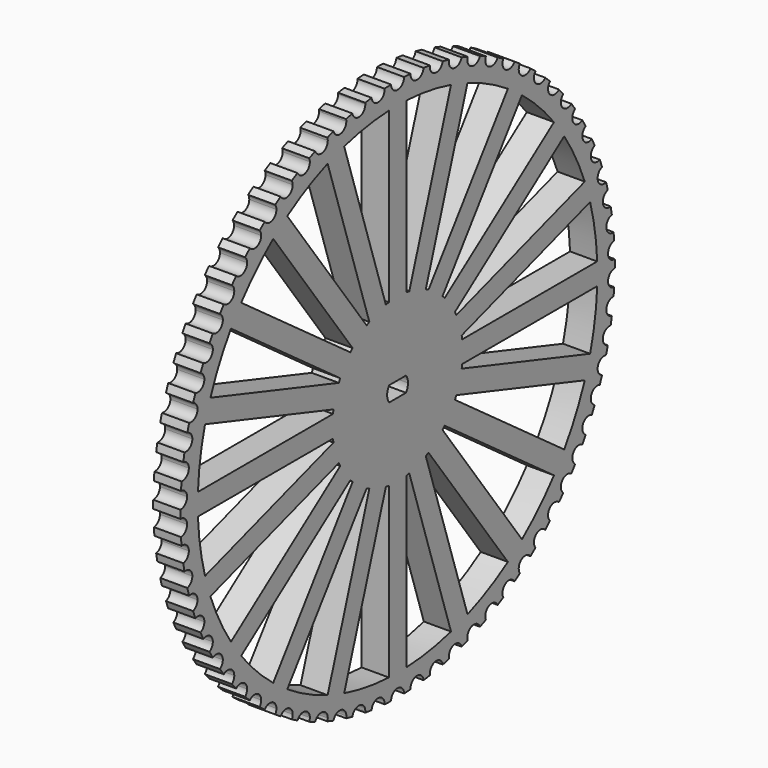
from build123d import *

# Parameters (mm, degrees)
F3_R     = 15
F4_DEPTH = 5
F5_DEPTH = 5
F6_DEPTH = 5


with BuildPart() as f4:
    # F3 (on line) → F4 (new body)
    with BuildSketch(Plane.YZ.offset(-40)):
        Circle(F3_R)
        with BuildLine():
            ThreePointArc((1.949358869, 1.4), (2.2845635563, 0.7353702178), (2.4, 0))
            ThreePointArc((2.4, 0), (2.2845635563, -0.7353702178), (1.949358869, -1.4))
            ThreePointArc((1.949358869, -1.4), (0, -2.4), (-1.949358869, -1.4))
            ThreePointArc((-1.949358869, -1.4), (-2.4, 0), (-1.949358869, 1.4))
            ThreePointArc((-1.949358869, 1.4), (0, 2.4), (1.949358869, 1.4))
        make_face(mode=Mode.SUBTRACT)
        with BuildLine():
            Line((-1.949358869, 1.4), (1.949358869, 1.4))
            ThreePointArc((1.949358869, 1.4), (0, 2.4), (-1.949358869, 1.4))
        make_face()
        with BuildLine():
            ThreePointArc((-1.949358869, -1.4), (0, -2.4), (1.949358869, -1.4))
            Line((1.949358869, -1.4), (-1.949358869, -1.4))
        make_face()
    extrude(amount=F4_DEPTH)

    # F2 (on line) → F5 (join)
    with BuildSketch(Plane.YZ.offset(-40)):
        with BuildLine():
            Line((9.762625356, 10.034497803), (28.6305876248, 36.0040199458))
            ThreePointArc((28.6305876248, 36.0040199458), (27.0381216055, 37.2147817412), (25.3945196473, 38.355160955))
            Line((25.3945196473, 38.355160955), (6.5265573785, 12.3856388121))
            ThreePointArc((6.5265573785, 12.3856388121), (8.2289935321, 11.3262379212), (9.762625356, 10.034497803))
        make_face()
        with BuildLine():
            Line((12.3856388121, 6.5265573785), (38.355160955, 25.3945196473))
            ThreePointArc((38.355160955, 25.3945196473), (37.2147817412, 27.0381216055), (36.0040199458, 28.6305876248))
            Line((36.0040199458, 28.6305876248), (10.034497803, 9.762625356))
            ThreePointArc((10.034497803, 9.762625356), (11.3262379212, 8.2289935321), (12.3856388121, 6.5265573785))
        make_face()
        with BuildLine():
            Line((13.7962596455, 2.3797520447), (44.3252638948, 12.2992268317))
            ThreePointArc((44.3252638948, 12.2992268317), (43.7485997496, 14.2147817412), (43.0891959173, 16.1034528968))
            Line((43.0891959173, 16.1034528968), (12.560191668, 6.1839781099))
            ThreePointArc((12.560191668, 6.1839781099), (13.3147912281, 4.3262379212), (13.7962596455, 2.3797520447))
        make_face()
        with BuildLine():
            ThreePointArc((45.9565011723, -2), (45.9891240073, -1.0002364905), (46, 0))
            ThreePointArc((46, 0), (45.9891240073, 1.0002364905), (45.9565011723, 2))
            Line((45.9565011723, 2), (13.8564064606, 2))
            ThreePointArc((13.8564064606, 2), (13.964055472, 1.0025740751), (14, 0))
            ThreePointArc((14, 0), (13.964055472, -1.0025740751), (13.8564064606, -2))
            Line((13.8564064606, -2), (45.9565011723, -2))
        make_face()
        with BuildLine():
            ThreePointArc((43.0891959173, -16.1034528968), (43.7485997496, -14.2147817412), (44.3252638948, -12.2992268317))
            Line((44.3252638948, -12.2992268317), (13.7962596455, -2.3797520447))
            ThreePointArc((13.7962596455, -2.3797520447), (13.3147912281, -4.3262379212), (12.560191668, -6.1839781099))
            Line((12.560191668, -6.1839781099), (43.0891959173, -16.1034528968))
        make_face()
        with BuildLine():
            ThreePointArc((36.0040199458, -28.6305876248), (37.2147817412, -27.0381216055), (38.355160955, -25.3945196473))
            Line((38.355160955, -25.3945196473), (12.3856388121, -6.5265573785))
            ThreePointArc((12.3856388121, -6.5265573785), (11.3262379212, -8.2289935321), (10.034497803, -9.762625356))
            Line((10.034497803, -9.762625356), (36.0040199458, -28.6305876248))
        make_face()
        with BuildLine():
            ThreePointArc((25.3945196473, -38.355160955), (27.0381216055, -37.2147817412), (28.6305876248, -36.0040199458))
            Line((28.6305876248, -36.0040199458), (9.762625356, -10.034497803))
            ThreePointArc((9.762625356, -10.034497803), (8.2289935321, -11.3262379212), (6.5265573785, -12.3856388121))
            Line((6.5265573785, -12.3856388121), (25.3945196473, -38.355160955))
        make_face()
        with BuildLine():
            ThreePointArc((12.2992268317, -44.3252638948), (14.2147817412, -43.7485997496), (16.1034528968, -43.0891959173))
            Line((16.1034528968, -43.0891959173), (6.1839781099, -12.560191668))
            ThreePointArc((6.1839781099, -12.560191668), (4.3262379212, -13.3147912281), (2.3797520447, -13.7962596455))
            Line((2.3797520447, -13.7962596455), (12.2992268317, -44.3252638948))
        make_face()
        with BuildLine():
            ThreePointArc((-2, -45.9565011723), (0, -46), (2, -45.9565011723))
            Line((2, -45.9565011723), (2, -13.8564064606))
            ThreePointArc((2, -13.8564064606), (0, -14), (-2, -13.8564064606))
            Line((-2, -13.8564064606), (-2, -45.9565011723))
        make_face()
        with BuildLine():
            ThreePointArc((-16.1034528968, -43.0891959173), (-14.2147817412, -43.7485997496), (-12.2992268317, -44.3252638948))
            Line((-12.2992268317, -44.3252638948), (-2.3797520447, -13.7962596455))
            ThreePointArc((-2.3797520447, -13.7962596455), (-4.3262379212, -13.3147912281), (-6.1839781099, -12.560191668))
            Line((-6.1839781099, -12.560191668), (-16.1034528968, -43.0891959173))
        make_face()
        with BuildLine():
            ThreePointArc((-28.6305876248, -36.0040199458), (-27.0381216055, -37.2147817412), (-25.3945196473, -38.355160955))
            Line((-25.3945196473, -38.355160955), (-6.5265573785, -12.3856388121))
            ThreePointArc((-6.5265573785, -12.3856388121), (-8.2289935321, -11.3262379212), (-9.762625356, -10.034497803))
            Line((-9.762625356, -10.034497803), (-28.6305876248, -36.0040199458))
        make_face()
        with BuildLine():
            ThreePointArc((-38.355160955, -25.3945196473), (-37.2147817412, -27.0381216055), (-36.0040199458, -28.6305876248))
            Line((-36.0040199458, -28.6305876248), (-10.034497803, -9.762625356))
            ThreePointArc((-10.034497803, -9.762625356), (-11.3262379212, -8.2289935321), (-12.3856388121, -6.5265573785))
            Line((-12.3856388121, -6.5265573785), (-38.355160955, -25.3945196473))
        make_face()
        with BuildLine():
            ThreePointArc((-44.3252638948, -12.2992268317), (-43.7485997496, -14.2147817412), (-43.0891959173, -16.1034528968))
            Line((-43.0891959173, -16.1034528968), (-12.560191668, -6.1839781099))
            ThreePointArc((-12.560191668, -6.1839781099), (-13.3147912281, -4.3262379212), (-13.7962596455, -2.3797520447))
            Line((-13.7962596455, -2.3797520447), (-44.3252638948, -12.2992268317))
        make_face()
        with BuildLine():
            Line((-12.560191668, 6.1839781099), (-43.0891959173, 16.1034528968))
            ThreePointArc((-43.0891959173, 16.1034528968), (-43.7485997496, 14.2147817412), (-44.3252638948, 12.2992268317))
            Line((-44.3252638948, 12.2992268317), (-13.7962596455, 2.3797520447))
            ThreePointArc((-13.7962596455, 2.3797520447), (-13.3147912281, 4.3262379212), (-12.560191668, 6.1839781099))
        make_face()
        with BuildLine():
            Line((-13.8564064606, 2), (-45.9565011723, 2))
            ThreePointArc((-45.9565011723, 2), (-46, 0), (-45.9565011723, -2))
            Line((-45.9565011723, -2), (-13.8564064606, -2))
            ThreePointArc((-13.8564064606, -2), (-14, 0), (-13.8564064606, 2))
        make_face()
        with BuildLine():
            Line((-10.034497803, 9.762625356), (-36.0040199458, 28.6305876248))
            ThreePointArc((-36.0040199458, 28.6305876248), (-37.2147817412, 27.0381216055), (-38.355160955, 25.3945196473))
            Line((-38.355160955, 25.3945196473), (-12.3856388121, 6.5265573785))
            ThreePointArc((-12.3856388121, 6.5265573785), (-11.3262379212, 8.2289935321), (-10.034497803, 9.762625356))
        make_face()
        with BuildLine():
            Line((-6.5265573785, 12.3856388121), (-25.3945196473, 38.355160955))
            ThreePointArc((-25.3945196473, 38.355160955), (-27.0381216055, 37.2147817412), (-28.6305876248, 36.0040199458))
            Line((-28.6305876248, 36.0040199458), (-9.762625356, 10.034497803))
            ThreePointArc((-9.762625356, 10.034497803), (-8.2289935321, 11.3262379212), (-6.5265573785, 12.3856388121))
        make_face()
        with BuildLine():
            Line((-2.3797520447, 13.7962596455), (-12.2992268317, 44.3252638948))
            ThreePointArc((-12.2992268317, 44.3252638948), (-14.2147817412, 43.7485997496), (-16.1034528968, 43.0891959173))
            Line((-16.1034528968, 43.0891959173), (-6.1839781099, 12.560191668))
            ThreePointArc((-6.1839781099, 12.560191668), (-4.3262379212, 13.3147912281), (-2.3797520447, 13.7962596455))
        make_face()
        with BuildLine():
            Line((2, 13.8564064606), (2, 45.9565011723))
            ThreePointArc((2, 45.9565011723), (0, 46), (-2, 45.9565011723))
            Line((-2, 45.9565011723), (-2, 13.8564064606))
            ThreePointArc((-2, 13.8564064606), (0, 14), (2, 13.8564064606))
        make_face()
        with BuildLine():
            Line((6.1839781099, 12.560191668), (16.1034528968, 43.0891959173))
            ThreePointArc((16.1034528968, 43.0891959173), (14.2147817412, 43.7485997496), (12.2992268317, 44.3252638948))
            Line((12.2992268317, 44.3252638948), (2.3797520447, 13.7962596455))
            ThreePointArc((2.3797520447, 13.7962596455), (4.3262379212, 13.3147912281), (6.1839781099, 12.560191668))
        make_face()
    extrude(amount=F5_DEPTH)

    # F2 (on line) → F6 (join)
    with BuildSketch(Plane.YZ.offset(-40)):
        with BuildLine():
            ThreePointArc((49.9944656572, -0.7439110486), (49.9986163952, -0.3719658174), (50, 0))
            ThreePointArc((50, 0), (49.9986163952, 0.3719658174), (49.9944656572, 0.7439110486))
            ThreePointArc((49.9944656572, 0.7439110486), (48.4511637273, 2.175944272), (49.8598863089, 3.7405530691))
            ThreePointArc((49.8598863089, 3.7405530691), (49.7987146998, 4.4819654452), (49.7265189643, 5.2223856319))
            ThreePointArc((49.7265189643, 5.2223856319), (48.0610634457, 6.5103133922), (49.3238644732, 8.1949004529))
            ThreePointArc((49.3238644732, 8.1949004529), (49.1964794299, 8.9278447399), (49.0582035795, 9.6588126369))
            ThreePointArc((49.0582035795, 9.6588126369), (47.2840037408, 10.7922652969), (48.3907158827, 12.5832673167))
            ThreePointArc((48.3907158827, 12.5832673167), (48.1981430348, 13.3018422783), (47.9949003852, 14.0174725617))
            ThreePointArc((47.9949003852, 14.0174725617), (46.1262410403, 14.9873242272), (47.0679537011, 16.870321111))
            ThreePointArc((47.0679537011, 16.870321111), (46.811743532, 17.5687412041), (46.5451704735, 18.2632720397))
            ThreePointArc((46.5451704735, 18.2632720397), (44.5970969687, 19.0617140352), (45.3662280319, 21.0215449993))
            ThreePointArc((45.3662280319, 21.0215449993), (45.0484433951, 21.6941869559), (44.7206862172, 22.3620263898))
            ThreePointArc((44.7206862172, 22.3620263898), (42.7088832951, 22.9826301299), (43.2992401695, 25.0035157677))
            ThreePointArc((43.2992401695, 25.0035157677), (42.9224396801, 25.6449638703), (42.5361372909, 26.2807348521))
            ThreePointArc((42.5361372909, 26.2807348521), (40.4768028055, 26.7185036004), (40.8836322848, 28.7841729289))
            ThreePointArc((40.8836322848, 28.7841729289), (40.4508497187, 29.3892626146), (40.009112398, 29.9878462902))
            ThreePointArc((40.009112398, 29.9878462902), (37.9188268997, 30.2392553901), (38.1388534321, 32.3330768546))
            ThreePointArc((38.1388534321, 32.3330768546), (37.6535733002, 32.896936297), (37.159957657, 33.4535132225))
            ThreePointArc((37.159957657, 33.4535132225), (35.0555508956, 33.5165384759), (35.0870029568, 35.621653857))
            ThreePointArc((35.0870029568, 35.621653857), (34.5531324493, 36.1397431914), (34.0116127867, 36.6498321367))
            ThreePointArc((34.0116127867, 36.6498321367), (31.9100282081, 36.5239661012), (31.7526525646, 38.6234262477))
            ThreePointArc((31.7526525646, 38.6234262477), (31.1744900929, 39.0915741234), (30.5894264087, 39.5510681523))
            ThreePointArc((30.5894264087, 39.5510681523), (28.5075847362, 39.2373242272), (28.1626484842, 41.3142255205))
            ThreePointArc((28.1626484842, 41.3142255205), (27.5448490726, 41.7286626861), (26.9209519556, 42.1338622228))
            ThreePointArc((26.9209519556, 42.1338622228), (24.8756149542, 41.6347664897), (24.3458953175, 43.6723869417))
            ThreePointArc((24.3458953175, 43.6723869417), (23.6934331236, 44.0297765928), (23.0357258266, 44.3774192089))
            ThreePointArc((23.0357258266, 44.3774192089), (21.0433613472, 43.6969900933), (20.3331233169, 45.6789239823))
            ThreePointArc((20.3331233169, 45.6789239823), (19.6512515827, 45.9763886276), (18.965029578, 46.2636753091))
            ThreePointArc((18.965029578, 46.2636753091), (17.0416789679, 45.407391226), (16.1566409631, 47.3176811857))
            ThreePointArc((16.1566409631, 47.3176811857), (15.4508497187, 47.5528258148), (14.7416380625, 47.7774434983))
            ThreePointArc((14.7416380625, 47.7774434983), (12.90278701, 46.7521987437), (11.8500748361, 48.5754642425))
            ThreePointArc((11.8500748361, 48.5754642425), (11.1260466978, 48.7463956091), (10.3995555452, 48.9065358052))
            ThreePointArc((10.3995555452, 48.9065358052), (8.6600093977, 47.720585047), (7.4480988744, 49.4421462232))
            ThreePointArc((7.4480988744, 49.4421462232), (6.7116632909, 49.5474880884), (5.9737419216, 49.6418614423))
            ThreePointArc((5.9737419216, 49.6418614423), (4.3475064818, 48.3047532588), (2.9861551998, 49.910749114))
            ThreePointArc((2.9861551998, 49.910749114), (2.2432415175, 49.9496533271), (1.4998312405, 49.9775))
            ThreePointArc((1.4998312405, 49.9775), (0, 48.5), (-1.4998312405, 49.9775))
            ThreePointArc((-1.4998312405, 49.9775), (-2.2432415175, 49.9496533271), (-2.9861551998, 49.910749114))
            ThreePointArc((-2.9861551998, 49.910749114), (-2.9830132498, 49.8547710643), (-2.9819654452, 49.7987146998))
            ThreePointArc((-2.9819654452, 49.7987146998), (-4.4034311044, 48.3007719915), (-5.9737419216, 49.6418614423))
            ThreePointArc((-5.9737419216, 49.6418614423), (-6.7116632909, 49.5474880884), (-7.4480988744, 49.4421462232))
            ThreePointArc((-7.4480988744, 49.4421462232), (-7.432916849, 49.3197295854), (-7.4278447399, 49.1964794299))
            ThreePointArc((-7.4278447399, 49.1964794299), (-8.7821845325, 47.7035684801), (-10.3995555452, 48.9065358052))
            ThreePointArc((-10.3995555452, 48.9065358052), (-11.1260466978, 48.7463956091), (-11.8500748361, 48.5754642425))
            ThreePointArc((-11.8500748361, 48.5754642425), (-11.8139492776, 48.3883387718), (-11.8018422783, 48.1981430348))
            ThreePointArc((-11.8018422783, 48.1981430348), (-13.0893495446, 46.7132703675), (-14.7416380625, 47.7774434983))
            ThreePointArc((-14.7416380625, 47.7774434983), (-15.4508497187, 47.5528258148), (-16.1566409631, 47.3176811857))
            ThreePointArc((-16.1566409631, 47.3176811857), (-16.090879512, 47.0685018216), (-16.0687412041, 46.811743532))
            ThreePointArc((-16.0687412041, 46.811743532), (-17.289843876, 45.3378994831), (-18.965029578, 46.2636753091))
            ThreePointArc((-18.965029578, 46.2636753091), (-19.6512515827, 45.9763886276), (-20.3331233169, 45.6789239823))
            ThreePointArc((-20.3331233169, 45.6789239823), (-20.2293327893, 45.3712471603), (-20.1941869559, 45.0484433951))
            ThreePointArc((-20.1941869559, 45.0484433951), (-21.3494466957, 43.5885960904), (-23.0357258266, 44.3774192089))
            ThreePointArc((-23.0357258266, 44.3774192089), (-23.6934331236, 44.0297765928), (-24.3458953175, 43.6723869417))
            ThreePointArc((-24.3458953175, 43.6723869417), (-24.1960672506, 43.310638837), (-24.1449638703, 42.9224396801))
            ThreePointArc((-24.1449638703, 42.9224396801), (-25.2350749389, 41.4795290578), (-26.9209519556, 42.1338622228))
            ThreePointArc((-26.9209519556, 42.1338622228), (-27.5448490726, 41.7286626861), (-28.1626484842, 41.3142255205))
            ThreePointArc((-28.1626484842, 41.3142255205), (-27.9592414267, 40.903662486), (-27.8892626146, 40.4508497187))
            ThreePointArc((-27.8892626146, 40.4508497187), (-28.9150504739, 39.0277816088), (-30.5894264087, 39.5510681523))
            ThreePointArc((-30.5894264087, 39.5510681523), (-31.1744900929, 39.0915741234), (-31.7526525646, 38.6234262477))
            ThreePointArc((-31.7526525646, 38.6234262477), (-31.4886704133, 38.1700877731), (-31.396936297, 37.6535733002))
            ThreePointArc((-31.396936297, 37.6535733002), (-32.359355947, 36.2532135724), (-34.0116127867, 36.6498321367))
            ThreePointArc((-34.0116127867, 36.6498321367), (-34.5531324493, 36.1397431914), (-35.0870029568, 35.621653857))
            ThreePointArc((-35.0870029568, 35.621653857), (-34.7560686719, 35.1323084365), (-34.6397431914, 34.5531324493))
            ThreePointArc((-34.6397431914, 34.5531324493), (-35.5398772474, 33.1783012418), (-37.159957657, 33.4535132225))
            ThreePointArc((-37.159957657, 33.4535132225), (-37.6535733002, 32.896936297), (-38.1388534321, 32.3330768546))
            ThreePointArc((-38.1388534321, 32.3330768546), (-37.7352775045, 31.815161211), (-37.5915741234, 31.1744900929))
            ThreePointArc((-37.5915741234, 31.1744900929), (-38.4306306356, 29.8279561327), (-40.009112398, 29.9878462902))
            ThreePointArc((-40.009112398, 29.9878462902), (-40.4508497187, 29.3892626146), (-40.8836322848, 28.7841729289))
            ThreePointArc((-40.8836322848, 28.7841729289), (-40.4024753686, 28.2457250952), (-40.2286626861, 27.5448490726))
            ThreePointArc((-40.2286626861, 27.5448490726), (-41.0079727067, 26.2293241), (-42.5361372909, 26.2807348521))
            ThreePointArc((-42.5361372909, 26.2807348521), (-42.9224396801, 25.6449638703), (-43.2992401695, 25.0035157677))
            ThreePointArc((-43.2992401695, 25.0035157677), (-42.7363693416, 24.4531025797), (-42.5297765928, 23.6934331236))
            ThreePointArc((-42.5297765928, 23.6934331236), (-43.2507914956, 22.4115664308), (-44.7206862172, 22.3620263898))
            ThreePointArc((-44.7206862172, 22.3620263898), (-45.0484433951, 21.6941869559), (-45.3662280319, 21.0215449993))
            ThreePointArc((-45.3662280319, 21.0215449993), (-44.7183661927, 20.4681845991), (-44.4763886276, 19.6512515827))
            ThreePointArc((-44.4763886276, 19.6512515827), (-45.1406771848, 18.4056246785), (-46.5451704735, 18.2632720397))
            ThreePointArc((-46.5451704735, 18.2632720397), (-46.811743532, 17.5687412041), (-47.0679537011, 16.870321111))
            ThreePointArc((-47.0679537011, 16.870321111), (-46.3327216859, 16.3234011011), (-46.0528258148, 15.4508497187))
            ThreePointArc((-46.0528258148, 15.4508497187), (-46.6620710381, 14.2439711301), (-47.9949003852, 14.0174725617))
            ThreePointArc((-47.9949003852, 14.0174725617), (-48.1981430348, 13.3018422783), (-48.3907158827, 12.5832673167))
            ThreePointArc((-48.3907158827, 12.5832673167), (-47.5666669137, 12.0524592437), (-47.2463956091, 11.1260466978))
            ThreePointArc((-47.2463956091, 11.1260466978), (-47.8023913601, 9.9603469175), (-49.0582035795, 9.6588126369))
            ThreePointArc((-49.0582035795, 9.6588126369), (-49.1964794299, 8.9278447399), (-49.3238644732, 8.1949004529))
            ThreePointArc((-49.3238644732, 8.1949004529), (-48.410510643, 7.6900713288), (-48.0474880884, 6.7116632909))
            ThreePointArc((-48.0474880884, 6.7116632909), (-48.5521354659, 5.5894898832), (-49.7265189643, 5.2223856319))
            ThreePointArc((-49.7265189643, 5.2223856319), (-49.7987146998, 4.4819654452), (-49.8598863089, 3.7405530691))
            ThreePointArc((-49.8598863089, 3.7405530691), (-48.8577168529, 3.2716746638), (-48.4496533271, 2.2432415175))
            ThreePointArc((-48.4496533271, 2.2432415175), (-48.9049568389, 1.1668543903), (-49.9944656572, 0.7439110486))
            ThreePointArc((-49.9944656572, 0.7439110486), (-50, 0), (-49.9944656572, -0.7439110486))
            ThreePointArc((-49.9944656572, -0.7439110486), (-48.9049568389, -1.1668543903), (-48.4496533271, -2.2432415175))
            ThreePointArc((-48.4496533271, -2.2432415175), (-48.8577168529, -3.2716746638), (-49.8598863089, -3.7405530691))
            ThreePointArc((-49.8598863089, -3.7405530691), (-49.7987146998, -4.4819654452), (-49.7265189643, -5.2223856319))
            ThreePointArc((-49.7265189643, -5.2223856319), (-48.5521354659, -5.5894898832), (-48.0474880884, -6.7116632909))
            ThreePointArc((-48.0474880884, -6.7116632909), (-48.410510643, -7.6900713288), (-49.3238644732, -8.1949004529))
            ThreePointArc((-49.3238644732, -8.1949004529), (-49.1964794299, -8.9278447399), (-49.0582035795, -9.6588126369))
            ThreePointArc((-49.0582035795, -9.6588126369), (-47.8023913601, -9.9603469175), (-47.2463956091, -11.1260466978))
            ThreePointArc((-47.2463956091, -11.1260466978), (-47.5666669137, -12.0524592437), (-48.3907158827, -12.5832673167))
            ThreePointArc((-48.3907158827, -12.5832673167), (-48.1981430348, -13.3018422783), (-47.9949003852, -14.0174725617))
            ThreePointArc((-47.9949003852, -14.0174725617), (-46.6620710381, -14.2439711301), (-46.0528258148, -15.4508497187))
            ThreePointArc((-46.0528258148, -15.4508497187), (-46.3327216859, -16.3234011011), (-47.0679537011, -16.870321111))
            ThreePointArc((-47.0679537011, -16.870321111), (-46.811743532, -17.5687412041), (-46.5451704735, -18.2632720397))
            ThreePointArc((-46.5451704735, -18.2632720397), (-45.1406771848, -18.4056246785), (-44.4763886276, -19.6512515827))
            ThreePointArc((-44.4763886276, -19.6512515827), (-44.7183661927, -20.4681845991), (-45.3662280319, -21.0215449993))
            ThreePointArc((-45.3662280319, -21.0215449993), (-45.0484433951, -21.6941869559), (-44.7206862172, -22.3620263898))
            ThreePointArc((-44.7206862172, -22.3620263898), (-43.2507914956, -22.4115664308), (-42.5297765928, -23.6934331236))
            ThreePointArc((-42.5297765928, -23.6934331236), (-42.7363693416, -24.4531025797), (-43.2992401695, -25.0035157677))
            ThreePointArc((-43.2992401695, -25.0035157677), (-42.9224396801, -25.6449638703), (-42.5361372909, -26.2807348521))
            ThreePointArc((-42.5361372909, -26.2807348521), (-41.0079727067, -26.2293241), (-40.2286626861, -27.5448490726))
            ThreePointArc((-40.2286626861, -27.5448490726), (-40.4024753686, -28.2457250952), (-40.8836322848, -28.7841729289))
            ThreePointArc((-40.8836322848, -28.7841729289), (-40.4508497187, -29.3892626146), (-40.009112398, -29.9878462902))
            ThreePointArc((-40.009112398, -29.9878462902), (-38.4306306356, -29.8279561327), (-37.5915741234, -31.1744900929))
            ThreePointArc((-37.5915741234, -31.1744900929), (-37.7352775045, -31.815161211), (-38.1388534321, -32.3330768546))
            ThreePointArc((-38.1388534321, -32.3330768546), (-37.6535733002, -32.896936297), (-37.159957657, -33.4535132225))
            ThreePointArc((-37.159957657, -33.4535132225), (-35.5398772474, -33.1783012418), (-34.6397431914, -34.5531324493))
            ThreePointArc((-34.6397431914, -34.5531324493), (-34.7560686719, -35.1323084365), (-35.0870029568, -35.621653857))
            ThreePointArc((-35.0870029568, -35.621653857), (-34.5531324493, -36.1397431914), (-34.0116127867, -36.6498321367))
            ThreePointArc((-34.0116127867, -36.6498321367), (-32.359355947, -36.2532135724), (-31.396936297, -37.6535733002))
            ThreePointArc((-31.396936297, -37.6535733002), (-31.4886704133, -38.1700877731), (-31.7526525646, -38.6234262477))
            ThreePointArc((-31.7526525646, -38.6234262477), (-31.1744900929, -39.0915741234), (-30.5894264087, -39.5510681523))
            ThreePointArc((-30.5894264087, -39.5510681523), (-28.9150504739, -39.0277816088), (-27.8892626146, -40.4508497187))
            ThreePointArc((-27.8892626146, -40.4508497187), (-27.9592414267, -40.903662486), (-28.1626484842, -41.3142255205))
            ThreePointArc((-28.1626484842, -41.3142255205), (-27.5448490726, -41.7286626861), (-26.9209519556, -42.1338622228))
            ThreePointArc((-26.9209519556, -42.1338622228), (-25.2350749389, -41.4795290578), (-24.1449638703, -42.9224396801))
            ThreePointArc((-24.1449638703, -42.9224396801), (-24.1960672506, -43.310638837), (-24.3458953175, -43.6723869417))
            ThreePointArc((-24.3458953175, -43.6723869417), (-23.6934331236, -44.0297765928), (-23.0357258266, -44.3774192089))
            ThreePointArc((-23.0357258266, -44.3774192089), (-21.3494466957, -43.5885960904), (-20.1941869559, -45.0484433951))
            ThreePointArc((-20.1941869559, -45.0484433951), (-20.2293327893, -45.3712471603), (-20.3331233169, -45.6789239823))
            ThreePointArc((-20.3331233169, -45.6789239823), (-19.6512515827, -45.9763886276), (-18.965029578, -46.2636753091))
            ThreePointArc((-18.965029578, -46.2636753091), (-17.289843876, -45.3378994831), (-16.0687412041, -46.811743532))
            ThreePointArc((-16.0687412041, -46.811743532), (-16.090879512, -47.0685018216), (-16.1566409631, -47.3176811857))
            ThreePointArc((-16.1566409631, -47.3176811857), (-15.4508497187, -47.5528258148), (-14.7416380625, -47.7774434983))
            ThreePointArc((-14.7416380625, -47.7774434983), (-13.0893495446, -46.7132703675), (-11.8018422783, -48.1981430348))
            ThreePointArc((-11.8018422783, -48.1981430348), (-11.8139492776, -48.3883387718), (-11.8500748361, -48.5754642425))
            ThreePointArc((-11.8500748361, -48.5754642425), (-11.1260466978, -48.7463956091), (-10.3995555452, -48.9065358052))
            ThreePointArc((-10.3995555452, -48.9065358052), (-8.7821845325, -47.7035684801), (-7.4278447399, -49.1964794299))
            ThreePointArc((-7.4278447399, -49.1964794299), (-7.432916849, -49.3197295854), (-7.4480988744, -49.4421462232))
            ThreePointArc((-7.4480988744, -49.4421462232), (-6.7116632909, -49.5474880884), (-5.9737419216, -49.6418614423))
            ThreePointArc((-5.9737419216, -49.6418614423), (-4.4034311044, -48.3007719915), (-2.9819654452, -49.7987146998))
            ThreePointArc((-2.9819654452, -49.7987146998), (-2.9830132498, -49.8547710643), (-2.9861551998, -49.910749114))
            ThreePointArc((-2.9861551998, -49.910749114), (-2.2432415175, -49.9496533271), (-1.4998312405, -49.9775))
            ThreePointArc((-1.4998312405, -49.9775), (0, -48.5), (1.4998312405, -49.9775))
            ThreePointArc((1.4998312405, -49.9775), (2.2432415175, -49.9496533271), (2.9861551998, -49.910749114))
            ThreePointArc((2.9861551998, -49.910749114), (4.3475064818, -48.3047532588), (5.9737419216, -49.6418614423))
            ThreePointArc((5.9737419216, -49.6418614423), (6.7116632909, -49.5474880884), (7.4480988744, -49.4421462232))
            ThreePointArc((7.4480988744, -49.4421462232), (8.6600093977, -47.720585047), (10.3995555452, -48.9065358052))
            ThreePointArc((10.3995555452, -48.9065358052), (11.1260466978, -48.7463956091), (11.8500748361, -48.5754642425))
            ThreePointArc((11.8500748361, -48.5754642425), (12.90278701, -46.7521987437), (14.7416380625, -47.7774434983))
            ThreePointArc((14.7416380625, -47.7774434983), (15.4508497187, -47.5528258148), (16.1566409631, -47.3176811857))
            ThreePointArc((16.1566409631, -47.3176811857), (17.0416789679, -45.407391226), (18.965029578, -46.2636753091))
            ThreePointArc((18.965029578, -46.2636753091), (19.6512515827, -45.9763886276), (20.3331233169, -45.6789239823))
            ThreePointArc((20.3331233169, -45.6789239823), (21.0433613472, -43.6969900933), (23.0357258266, -44.3774192089))
            ThreePointArc((23.0357258266, -44.3774192089), (23.6934331236, -44.0297765928), (24.3458953175, -43.6723869417))
            ThreePointArc((24.3458953175, -43.6723869417), (24.8756149542, -41.6347664897), (26.9209519556, -42.1338622228))
            ThreePointArc((26.9209519556, -42.1338622228), (27.5448490726, -41.7286626861), (28.1626484842, -41.3142255205))
            ThreePointArc((28.1626484842, -41.3142255205), (28.5075847362, -39.2373242272), (30.5894264087, -39.5510681523))
            ThreePointArc((30.5894264087, -39.5510681523), (31.1744900929, -39.0915741234), (31.7526525646, -38.6234262477))
            ThreePointArc((31.7526525646, -38.6234262477), (31.9100282081, -36.5239661012), (34.0116127867, -36.6498321367))
            ThreePointArc((34.0116127867, -36.6498321367), (34.5531324493, -36.1397431914), (35.0870029568, -35.621653857))
            ThreePointArc((35.0870029568, -35.621653857), (35.0555508956, -33.5165384759), (37.159957657, -33.4535132225))
            ThreePointArc((37.159957657, -33.4535132225), (37.6535733002, -32.896936297), (38.1388534321, -32.3330768546))
            ThreePointArc((38.1388534321, -32.3330768546), (37.9188268997, -30.2392553901), (40.009112398, -29.9878462902))
            ThreePointArc((40.009112398, -29.9878462902), (40.4508497187, -29.3892626146), (40.8836322848, -28.7841729289))
            ThreePointArc((40.8836322848, -28.7841729289), (40.4768028055, -26.7185036004), (42.5361372909, -26.2807348521))
            ThreePointArc((42.5361372909, -26.2807348521), (42.9224396801, -25.6449638703), (43.2992401695, -25.0035157677))
            ThreePointArc((43.2992401695, -25.0035157677), (42.7088832951, -22.9826301299), (44.7206862172, -22.3620263898))
            ThreePointArc((44.7206862172, -22.3620263898), (45.0484433951, -21.6941869559), (45.3662280319, -21.0215449993))
            ThreePointArc((45.3662280319, -21.0215449993), (44.5970969687, -19.0617140352), (46.5451704735, -18.2632720397))
            ThreePointArc((46.5451704735, -18.2632720397), (46.811743532, -17.5687412041), (47.0679537011, -16.870321111))
            ThreePointArc((47.0679537011, -16.870321111), (46.1262410403, -14.9873242272), (47.9949003852, -14.0174725617))
            ThreePointArc((47.9949003852, -14.0174725617), (48.1981430348, -13.3018422783), (48.3907158827, -12.5832673167))
            ThreePointArc((48.3907158827, -12.5832673167), (47.2840037408, -10.7922652969), (49.0582035795, -9.6588126369))
            ThreePointArc((49.0582035795, -9.6588126369), (49.1964794299, -8.9278447399), (49.3238644732, -8.1949004529))
            ThreePointArc((49.3238644732, -8.1949004529), (48.0610634457, -6.5103133922), (49.7265189643, -5.2223856319))
            ThreePointArc((49.7265189643, -5.2223856319), (49.7987146998, -4.4819654452), (49.8598863089, -3.7405530691))
            ThreePointArc((49.8598863089, -3.7405530691), (48.4511637273, -2.175944272), (49.9944656572, -0.7439110486))
        make_face()
        with BuildLine():
            ThreePointArc((45.9565011723, 2), (45.9891240073, 1.0002364905), (46, 0))
            ThreePointArc((46, 0), (45.9891240073, -1.0002364905), (45.9565011723, -2))
            ThreePointArc((45.9565011723, -2), (45.4336636674, -7.1959853919), (44.3252638948, -12.2992268317))
            ThreePointArc((44.3252638948, -12.2992268317), (43.7485997496, -14.2147817412), (43.0891959173, -16.1034528968))
            ThreePointArc((43.0891959173, -16.1034528968), (40.9863001127, -20.883562988), (38.355160955, -25.3945196473))
            ThreePointArc((38.355160955, -25.3945196473), (37.2147817412, -27.0381216055), (36.0040199458, -28.6305876248))
            ThreePointArc((36.0040199458, -28.6305876248), (32.5269119346, -32.5269119346), (28.6305876248, -36.0040199458))
            ThreePointArc((28.6305876248, -36.0040199458), (27.0381216055, -37.2147817412), (25.3945196473, -38.355160955))
            ThreePointArc((25.3945196473, -38.355160955), (20.883562988, -40.9863001127), (16.1034528968, -43.0891959173))
            ThreePointArc((16.1034528968, -43.0891959173), (14.2147817412, -43.7485997496), (12.2992268317, -44.3252638948))
            ThreePointArc((12.2992268317, -44.3252638948), (7.1959853919, -45.4336636674), (2, -45.9565011723))
            ThreePointArc((2, -45.9565011723), (0, -46), (-2, -45.9565011723))
            ThreePointArc((-2, -45.9565011723), (-7.1959853919, -45.4336636674), (-12.2992268317, -44.3252638948))
            ThreePointArc((-12.2992268317, -44.3252638948), (-14.2147817412, -43.7485997496), (-16.1034528968, -43.0891959173))
            ThreePointArc((-16.1034528968, -43.0891959173), (-20.883562988, -40.9863001127), (-25.3945196473, -38.355160955))
            ThreePointArc((-25.3945196473, -38.355160955), (-27.0381216055, -37.2147817412), (-28.6305876248, -36.0040199458))
            ThreePointArc((-28.6305876248, -36.0040199458), (-32.5269119346, -32.5269119346), (-36.0040199458, -28.6305876248))
            ThreePointArc((-36.0040199458, -28.6305876248), (-37.2147817412, -27.0381216055), (-38.355160955, -25.3945196473))
            ThreePointArc((-38.355160955, -25.3945196473), (-40.9863001127, -20.883562988), (-43.0891959173, -16.1034528968))
            ThreePointArc((-43.0891959173, -16.1034528968), (-43.7485997496, -14.2147817412), (-44.3252638948, -12.2992268317))
            ThreePointArc((-44.3252638948, -12.2992268317), (-45.4336636674, -7.1959853919), (-45.9565011723, -2))
            ThreePointArc((-45.9565011723, -2), (-46, 0), (-45.9565011723, 2))
            ThreePointArc((-45.9565011723, 2), (-45.4336636674, 7.1959853919), (-44.3252638948, 12.2992268317))
            ThreePointArc((-44.3252638948, 12.2992268317), (-43.7485997496, 14.2147817412), (-43.0891959173, 16.1034528968))
            ThreePointArc((-43.0891959173, 16.1034528968), (-40.9863001127, 20.883562988), (-38.355160955, 25.3945196473))
            ThreePointArc((-38.355160955, 25.3945196473), (-37.2147817412, 27.0381216055), (-36.0040199458, 28.6305876248))
            ThreePointArc((-36.0040199458, 28.6305876248), (-32.5269119346, 32.5269119346), (-28.6305876248, 36.0040199458))
            ThreePointArc((-28.6305876248, 36.0040199458), (-27.0381216055, 37.2147817412), (-25.3945196473, 38.355160955))
            ThreePointArc((-25.3945196473, 38.355160955), (-20.883562988, 40.9863001127), (-16.1034528968, 43.0891959173))
            ThreePointArc((-16.1034528968, 43.0891959173), (-14.2147817412, 43.7485997496), (-12.2992268317, 44.3252638948))
            ThreePointArc((-12.2992268317, 44.3252638948), (-7.1959853919, 45.4336636674), (-2, 45.9565011723))
            ThreePointArc((-2, 45.9565011723), (0, 46), (2, 45.9565011723))
            ThreePointArc((2, 45.9565011723), (7.1959853919, 45.4336636674), (12.2992268317, 44.3252638948))
            ThreePointArc((12.2992268317, 44.3252638948), (14.2147817412, 43.7485997496), (16.1034528968, 43.0891959173))
            ThreePointArc((16.1034528968, 43.0891959173), (20.883562988, 40.9863001127), (25.3945196473, 38.355160955))
            ThreePointArc((25.3945196473, 38.355160955), (27.0381216055, 37.2147817412), (28.6305876248, 36.0040199458))
            ThreePointArc((28.6305876248, 36.0040199458), (32.5269119346, 32.5269119346), (36.0040199458, 28.6305876248))
            ThreePointArc((36.0040199458, 28.6305876248), (37.2147817412, 27.0381216055), (38.355160955, 25.3945196473))
            ThreePointArc((38.355160955, 25.3945196473), (40.9863001127, 20.883562988), (43.0891959173, 16.1034528968))
            ThreePointArc((43.0891959173, 16.1034528968), (43.7485997496, 14.2147817412), (44.3252638948, 12.2992268317))
            ThreePointArc((44.3252638948, 12.2992268317), (45.4336636674, 7.1959853919), (45.9565011723, 2))
        make_face(mode=Mode.SUBTRACT)
    extrude(amount=F6_DEPTH)


solid = f4.part
